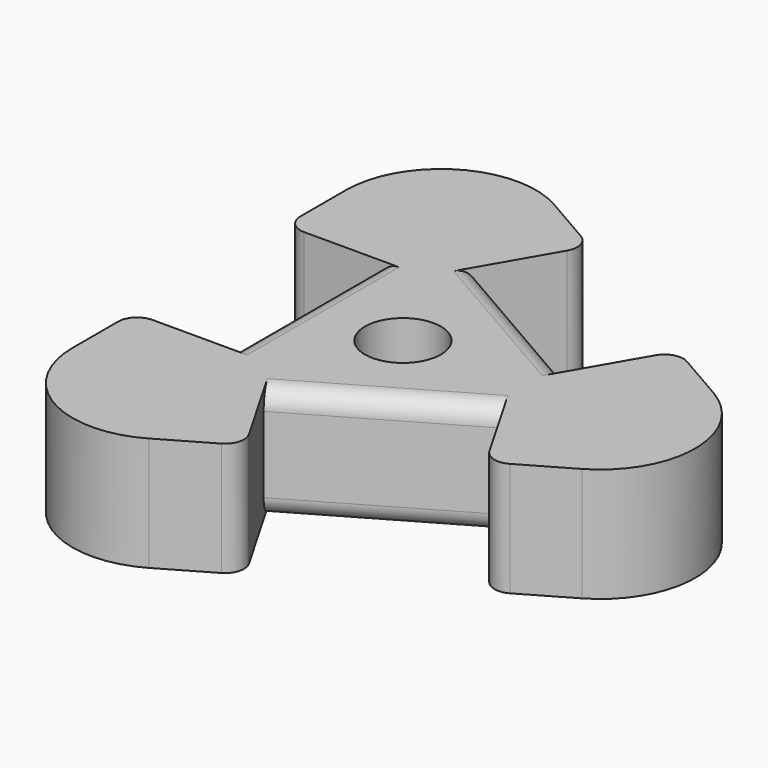
from build123d import *

# Parameters (mm, degrees)
F1_DEPTH = 15
F2_R     = 5
F3_D     = 20
F4_D     = 20


with BuildPart() as f1:
    # F0 (on Top) → F1 (new body, symmetric)
    with BuildSketch(Plane.XY):
        with BuildLine():
            Line((34.641016, 10), (-8.660254, 35))
            Line((-8.660254, 35), (3.839746, 56.650635))
            Line((3.839746, 56.650635), (-13.480762, 66.650635))
            ThreePointArc((-13.480762, 66.650635), (-38.480762, 66.650635), (-50.980762, 45))
            Line((-50.980762, 45), (-50.980762, 25))
            Line((-50.980762, 25), (-25.980762, 25))
            Line((-25.980762, 25), (-25.980762, -25))
            Line((-25.980762, -25), (-50.980762, -25))
            Line((-50.980762, -25), (-50.980762, -45))
            ThreePointArc((-50.980762, -45), (-38.480762, -66.650635), (-13.480762, -66.650635))
            Line((-13.480762, -66.650635), (3.839746, -56.650635))
            Line((3.839746, -56.650635), (-8.660254, -35))
            Line((-8.660254, -35), (34.641016, -10))
            Line((34.641016, -10), (47.141016, -31.650635))
            Line((47.141016, -31.650635), (64.461524, -21.650635))
            ThreePointArc((64.461524, -21.650635), (76.961524, 0), (64.461524, 21.650635))
            Line((64.461524, 21.650635), (47.141016, 31.650635))
            Line((47.141016, 31.650635), (34.641016, 10))
        make_face()
    extrude(amount=F1_DEPTH, both=True)

    # F2
    f2_edges = [f1.edges().sort_by_distance(p)[0] for p in [
        (12.990381, 22.5, 15),
        (12.990381, -22.5, 15),
        (-25.980762, 0, 15),
        (12.990381, 22.5, -15),
        (12.990381, -22.5, -15),
        (-25.980762, 0, -15),
        (3.839746, 56.650635, 0),
        (3.839746, -56.650635, 0),
        (47.141016, -31.650635, 0),
        (47.141016, 31.650635, 0),
        (-50.980762, -25, 0),
        (-50.980762, 25, 0),
    ]]
    fillet(f2_edges, radius=F2_R)

    # F3 (through all)
    with Locations(Plane(origin=(0, 0, 0), x_dir=(1, 0, 0), z_dir=(0, 0, -1))):
        with Locations((0, 0)):
            Hole(F3_D / 2)

    # F4 (through all)
    with Locations(Plane.XY):
        with Locations((0, 0)):
            Hole(F4_D / 2)


solid = f1.part
